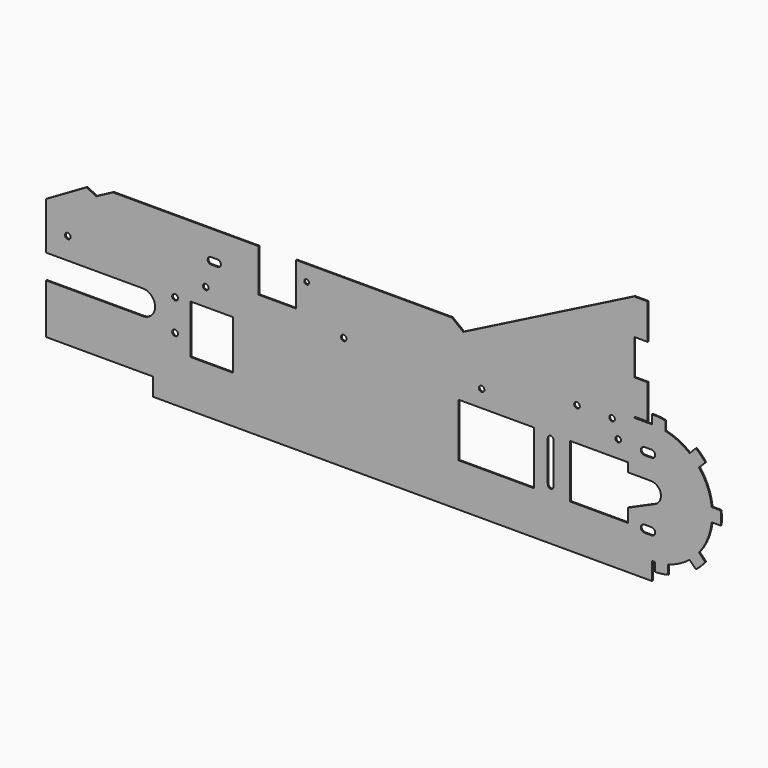
from build123d import *

# Parameters (mm, degrees)
F0_R     = 4.1275
F0_R_2   = 4.0005
F0_W     = 107.95
F0_H     = 76.2
F0_R_3   = 3.429
F0_W_2   = 712.238387
F0_H_2   = 25.4
F0_W_3   = 19.05
F0_H_3   = 50.8
F1_DEPTH = 1.5748
F2_W     = 19.05
F2_H     = 1.5748
F3_DEPTH = 25.4


with BuildPart() as f1:
    # F0 (on Front) → F1 (new body)
    with BuildSketch(Plane.XZ):
        with BuildLine():
            Line((0, 71.12), (0, 0))
            Line((0, 0), (152.4, 0))
            Line((152.4, 0), (864.638387, 0))
            ThreePointArc((864.638387, 0), (866.755792, 0.026154), (868.871905, 0.1046))
            ThreePointArc((868.871905, 0.1046), (878.359069, 1.105153), (887.676316, 3.15364))
            ThreePointArc((887.676316, 3.15364), (903.696678, 9.414938), (918.144584, 18.748418))
            ThreePointArc((918.144584, 18.748418), (921.788387, 21.829358), (925.255116, 25.108271))
            Line((925.255116, 25.108271), (873.880221, 76.483166))
            ThreePointArc((873.880221, 76.483166), (871.544457, 74.285755), (868.777424, 72.664665))
            Line((868.777424, 72.664665), (830.221387, 55.5625))
            Line((830.221387, 55.5625), (830.221387, 36.5125))
            Line((830.221387, 36.5125), (747.671387, 36.5125))
            Line((747.671387, 36.5125), (747.671387, 112.7125))
            Line((747.671387, 112.7125), (830.221387, 112.7125))
            Line((830.221387, 112.7125), (830.221387, 100.0125))
            Line((830.221387, 100.0125), (862.984297, 100.0125))
            ThreePointArc((862.984297, 100.0125), (868.988044, 98.689863), (873.880221, 94.966834))
            Line((873.880221, 94.966834), (925.255116, 146.341729))
            ThreePointArc((925.255116, 146.341729), (921.788387, 149.620642), (918.144584, 152.701582))
            ThreePointArc((918.144584, 152.701582), (901.799905, 162.976519), (883.570429, 169.333333))
            ThreePointArc((883.570429, 169.333333), (874.163387, 170.91919), (864.638387, 171.45))
            Line((864.638387, 171.45), (858.288387, 171.45))
            Line((858.288387, 171.45), (839.238387, 171.45))
            Line((839.238387, 171.45), (839.238387, 222.25))
            Line((839.238387, 222.25), (839.238387, 273.05))
            Line((839.238387, 273.05), (839.238387, 323.85))
            Line((839.238387, 323.85), (595.3125, 200.025))
            Line((595.3125, 200.025), (455.231453, 200.025))
            Line((455.231453, 200.025), (439.727616, 200.025))
            Line((439.727616, 200.025), (356.5525, 200.025))
            Line((356.5525, 200.025), (356.5525, 151.765))
            Line((356.5525, 151.765), (303.2125, 151.765))
            Line((303.2125, 151.765), (303.2125, 200.025))
            Line((303.2125, 200.025), (71.490397, 200.025))
            Line((71.490397, 200.025), (0, 158.75))
            Line((0, 158.75), (0, 106.045))
            Line((0, 106.045), (138.1125, 106.045))
            ThreePointArc((138.1125, 106.045), (155.575, 88.5825), (138.1125, 71.12))
            Line((138.1125, 71.12), (0, 71.12))
        make_face()
        with Locations((184.0865, 65.0875)):
            Circle(F0_R, mode=Mode.SUBTRACT)
        Polygon((206.375, 41.91), (206.375, 88.5825), (206.375, 111.76), (266.7, 111.76), (266.7, 41.91), align=None, mode=Mode.SUBTRACT)
        with Locations((31.0642, 136.9695)):
            Circle(F0_R_2, mode=Mode.SUBTRACT)
        with Locations((184.0865, 109.8169)):
            Circle(F0_R, mode=Mode.SUBTRACT)
        with Locations((227.838, 136.9695)):
            Circle(F0_R_2, mode=Mode.SUBTRACT)
        with Locations((424.6118, 136.9695)):
            Circle(F0_R_2, mode=Mode.SUBTRACT)
        with BuildLine():
            ThreePointArc((853.652887, 31.8135), (848.509387, 36.957), (853.652887, 42.1005))
            Line((853.652887, 42.1005), (863.939887, 42.1005))
            ThreePointArc((863.939887, 42.1005), (867.576891, 40.594004), (869.083387, 36.957))
            ThreePointArc((869.083387, 36.957), (867.576891, 33.319996), (863.939887, 31.8135))
            Line((863.939887, 31.8135), (853.652887, 31.8135))
        make_face(mode=Mode.SUBTRACT)
        with Locations((642.388387, 74.6252)):
            Rectangle(F0_W, F0_H, mode=Mode.SUBTRACT)
        with BuildLine():
            ThreePointArc((715.794387, 106.0577), (719.921887, 110.1852), (724.049387, 106.0577))
            Line((724.049387, 106.0577), (724.049387, 47.6377))
            ThreePointArc((724.049387, 47.6377), (719.921887, 43.5102), (715.794387, 47.6377))
            Line((715.794387, 47.6377), (715.794387, 106.0577))
        make_face(mode=Mode.SUBTRACT)
        with Locations((621.3856, 136.9695)):
            Circle(F0_R_2, mode=Mode.SUBTRACT)
        with Locations((816.314887, 137.033)):
            Circle(F0_R_2, mode=Mode.SUBTRACT)
        with BuildLine():
            ThreePointArc((853.652887, 129.2225), (848.509387, 134.366), (853.652887, 139.5095))
            Line((853.652887, 139.5095), (863.939887, 139.5095))
            ThreePointArc((863.939887, 139.5095), (867.576891, 138.003004), (869.083387, 134.366))
            ThreePointArc((869.083387, 134.366), (867.576891, 130.728996), (863.939887, 129.2225))
            Line((863.939887, 129.2225), (853.652887, 129.2225))
        make_face(mode=Mode.SUBTRACT)
        with BuildLine():
            ThreePointArc((244.6655, 177.038), (247.988195, 175.661695), (249.3645, 172.339))
            ThreePointArc((249.3645, 172.339), (247.988195, 169.016305), (244.6655, 167.64))
            Line((244.6655, 167.64), (235.2675, 167.64))
            ThreePointArc((235.2675, 167.64), (230.5685, 172.339), (235.2675, 177.038))
            Line((235.2675, 177.038), (244.6655, 177.038))
        make_face(mode=Mode.SUBTRACT)
        with Locations((371.7925, 190.119)):
            Circle(F0_R_3, mode=Mode.SUBTRACT)
        with Locations((757.513887, 160.655)):
            Circle(F0_R_2, mode=Mode.SUBTRACT)
        with Locations((807.577287, 160.655)):
            Circle(F0_R_2, mode=Mode.SUBTRACT)
        with BuildLine():
            ThreePointArc((873.880221, 94.966834), (876.39713, 90.647253), (877.271797, 85.725))
            Line((877.271797, 85.725), (950.363387, 85.725))
            ThreePointArc((950.363387, 85.725), (950.230582, 90.49489), (949.832577, 95.25))
            ThreePointArc((949.832577, 95.25), (943.83796, 118.530537), (931.614968, 139.231197))
            ThreePointArc((931.614968, 139.231197), (928.534029, 142.875), (925.255116, 146.341729))
            Line((925.255116, 146.341729), (873.880221, 94.966834))
        make_face()
        with BuildLine():
            Line((873.880221, 76.483166), (925.255116, 25.108271))
            ThreePointArc((925.255116, 25.108271), (928.534029, 28.575), (931.614968, 32.218803))
            ThreePointArc((931.614968, 32.218803), (943.83796, 52.919463), (949.832577, 76.2))
            ThreePointArc((949.832577, 76.2), (950.230582, 80.95511), (950.363387, 85.725))
            Line((950.363387, 85.725), (877.271797, 85.725))
            ThreePointArc((877.271797, 85.725), (876.39713, 80.802747), (873.880221, 76.483166))
        make_face()
        with BuildLine():
            ThreePointArc((950.363387, 85.725), (950.230582, 80.95511), (949.832577, 76.2))
            Line((949.832577, 76.2), (962.601416, 76.2))
            ThreePointArc((962.601416, 76.2), (962.947826, 80.956902), (963.063387, 85.725))
            Line((963.063387, 85.725), (950.363387, 85.725))
        make_face()
        with BuildLine():
            ThreePointArc((949.832577, 95.25), (950.230582, 90.49489), (950.363387, 85.725))
            Line((950.363387, 85.725), (963.063387, 85.725))
            Line((963.063387, 85.725), (962.601416, 95.25))
            Line((962.601416, 95.25), (949.832577, 95.25))
        make_face()
        with BuildLine():
            Line((934.235372, 155.321985), (925.255116, 146.341729))
            ThreePointArc((925.255116, 146.341729), (928.534029, 142.875), (931.614968, 139.231197))
            Line((931.614968, 139.231197), (940.643901, 148.26013))
            ThreePointArc((940.643901, 148.26013), (937.525213, 151.868717), (934.235372, 155.321985))
        make_face()
        with BuildLine():
            ThreePointArc((918.144584, 152.701582), (921.788387, 149.620642), (925.255116, 146.341729))
            Line((925.255116, 146.341729), (934.235372, 155.321985))
            ThreePointArc((934.235372, 155.321985), (930.782104, 158.611826), (927.173517, 161.730514))
            Line((927.173517, 161.730514), (918.144584, 152.701582))
        make_face()
        with BuildLine():
            ThreePointArc((864.638387, 171.45), (874.163387, 170.91919), (883.570429, 169.333333))
            Line((883.570429, 169.333333), (883.598973, 182.306452))
            ThreePointArc((883.598973, 182.306452), (874.163387, 183.688029), (864.638387, 184.15))
            Line((864.638387, 184.15), (864.638387, 171.45))
        make_face()
        with BuildLine():
            ThreePointArc((931.614968, 32.218803), (928.534029, 28.575), (925.255116, 25.108271))
            Line((925.255116, 25.108271), (934.235372, 16.128015))
            ThreePointArc((934.235372, 16.128015), (937.525213, 19.581283), (940.643901, 23.18987))
            Line((940.643901, 23.18987), (931.614968, 32.218803))
        make_face()
        with BuildLine():
            ThreePointArc((925.255116, 25.108271), (921.788387, 21.829358), (918.144584, 18.748418))
            Line((918.144584, 18.748418), (927.173517, 9.719486))
            ThreePointArc((927.173517, 9.719486), (930.782104, 12.838174), (934.235372, 16.128015))
            Line((934.235372, 16.128015), (925.255116, 25.108271))
        make_face()
        with BuildLine():
            ThreePointArc((887.676316, 3.15364), (878.359069, 1.105153), (868.871905, 0.1046))
            Line((868.871905, 0.1046), (868.871905, -12.60891))
            ThreePointArc((868.871905, -12.60891), (878.368219, -11.737671), (887.735648, -9.951524))
            Line((887.735648, -9.951524), (887.676316, 3.15364))
        make_face()
        with Locations((508.519193, -12.7)):
            Rectangle(F0_W_2, F0_H_2)
        with Locations((848.763387, 196.85)):
            Rectangle(F0_W_3, F0_H_3)
        with Locations((848.763387, 298.45)):
            Rectangle(F0_W_3, F0_H_3)
        Polygon((356.5525, 212.725), (356.5525, 200.025), (439.727616, 200.025), (455.231453, 200.025), (595.3125, 200.025), (579.161286, 212.725), align=None)
        Polygon((95.536456, 212.725), (71.490397, 200.025), (303.2125, 200.025), (303.2125, 212.725), align=None)
        Polygon((0, 173.414697), (0, 158.75), (71.490397, 200.025), (57.889698, 206.837329), align=None)
    extrude(amount=F1_DEPTH)

    # F2 (on face) → F3 (cut)
    with BuildSketch(Plane.XZ.offset(1.5748)):
        with Locations((848.763387, 172.2374)):
            Rectangle(F2_W, F2_H)
    extrude(amount=-F3_DEPTH, mode=Mode.SUBTRACT)


solid = f1.part
